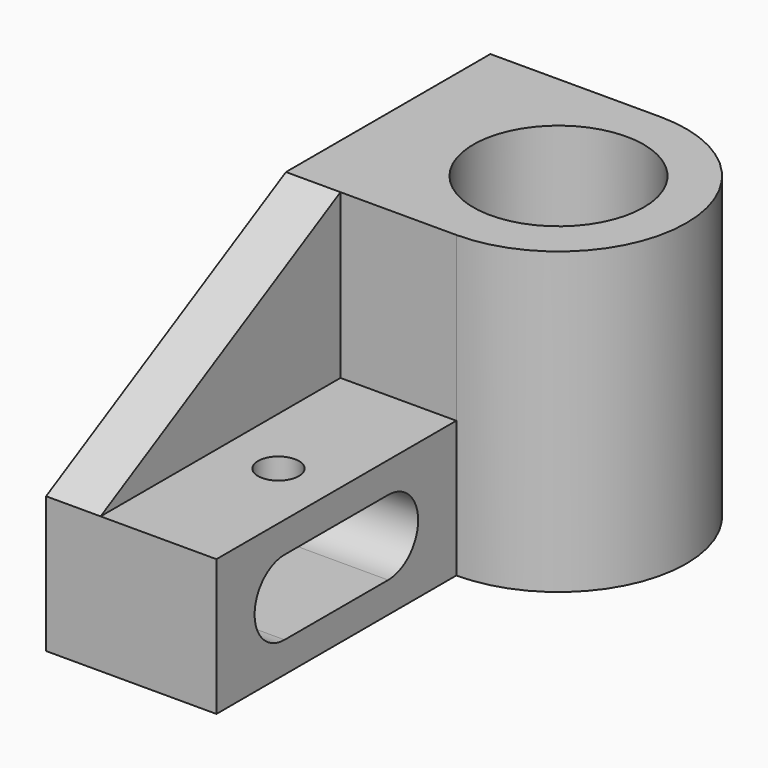
from build123d import *

# Parameters (mm, degrees)
F0_R     = 25
F1_DEPTH = 88
F3_DEPTH = 50
F5_DEPTH = 16
F7_R     = 6
F8_DEPTH = 9


with BuildPart() as f1:
    # F0 (on Top) → F1 (new body)
    with BuildSketch(Plane.XY):
        with BuildLine():
            Line((0, 75), (0, 0))
            Line((0, 0), (50, 0))
            ThreePointArc((50, 0), (87.5, 37.5), (50, 75))
            Line((50, 75), (0, 75))
        make_face()
        with Locations((50, 37.5)):
            Circle(F0_R, mode=Mode.SUBTRACT)
    extrude(amount=F1_DEPTH)

    # F2 (on Right) → F3 (join)
    with BuildSketch(Plane.YZ):
        Polygon((-25, 0), (0, 0), (0, 40), (-88, 40), (-88, 0), align=None)
        with BuildLine():
            ThreePointArc((-25, 31), (-14, 20), (-25, 9))
            Line((-25, 9), (-63, 9))
            ThreePointArc((-63, 9), (-74, 20), (-63, 31))
            Line((-63, 31), (-25, 31))
        make_face(mode=Mode.SUBTRACT)
    extrude(amount=F3_DEPTH)

    # F4 (on Right) → F5 (join)
    with BuildSketch(Plane.YZ):
        Polygon((-88, 40), (0, 40), (0, 88), align=None)
    extrude(amount=F5_DEPTH)

    # F7 (on face) → F8 (cut, through all)
    with BuildSketch(Plane.XY.offset(40)):
        with Locations((33, -44)):
            Circle(F7_R)
    extrude(amount=-F8_DEPTH, mode=Mode.SUBTRACT)


solid = f1.part
